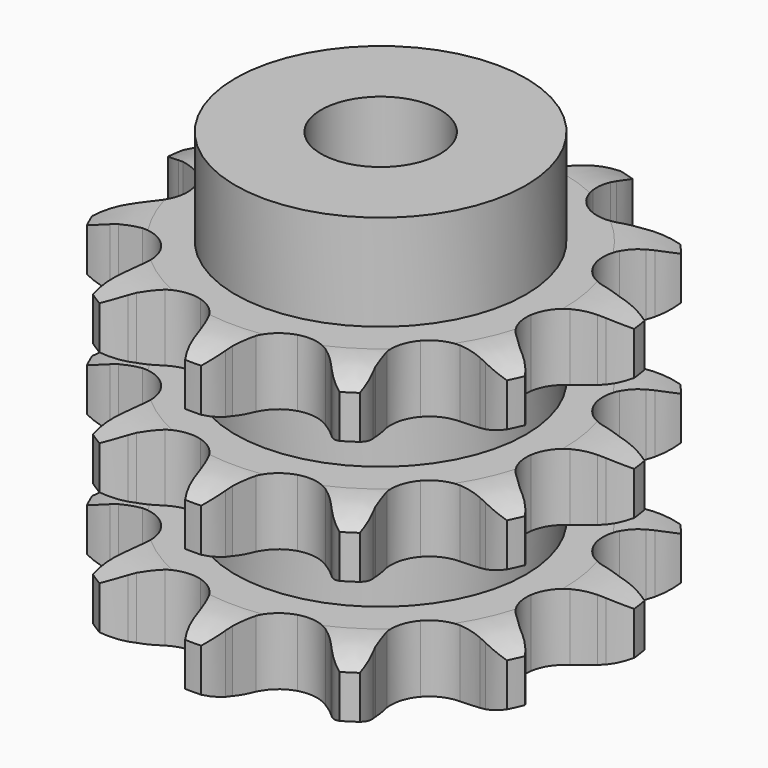
from build123d import *

# Parameters (mm, degrees)
PAD_DEPTH         = 42.1
SKETCH001_R       = 19.5
PAD001_DEPTH      = 55
SKETCH002_R       = 8
POCKET_DEPTH      = 0.001
POCKET_DEPTH_BACK = 55.001


with BuildPart() as part:
    # Sprocket → Pad (new body)
    with BuildSketch(Plane.XY):
        with BuildLine():
            ThreePointArc((-9.271424, 31.575569), (-7.404692, 30.088528), (-6.018207, 28.145944))
            Line((-6.018207, 28.145944), (-5.582333, 27.310258))
            ThreePointArc((-5.582333, 27.310258), (-4.817807, 26.026363), (-3.913797, 24.836551))
            ThreePointArc((-3.913797, 24.836551), (-2.155229, 23.503703), (0, 23.030383))
            ThreePointArc((0, 23.030383), (2.155229, 23.503703), (3.913797, 24.836551))
            ThreePointArc((3.913797, 24.836551), (4.817807, 26.026363), (5.582333, 27.310258))
            Line((5.582333, 27.310258), (6.018207, 28.145944))
            ThreePointArc((6.018207, 28.145944), (7.404692, 30.088528), (9.271424, 31.575569))
            ThreePointArc((9.271424, 31.575569), (10.037863, 29.31536), (10.154008, 26.931564))
            Line((10.154008, 26.931564), (10.068882, 25.992888))
            ThreePointArc((10.068882, 25.992888), (10.017917, 24.499473), (10.135157, 23.009794))
            ThreePointArc((10.135157, 23.009794), (10.893967, 20.937778), (12.451165, 19.374391))
            ThreePointArc((12.451165, 19.374391), (14.520155, 18.607368), (16.720148, 18.777877))
            Line((16.720148, 18.777877), (19.461198, 19.956813))
            ThreePointArc((19.461198, 19.956813), (19.866291, 20.197768), (20.279684, 20.424186))
            ThreePointArc((20.279684, 20.424186), (22.49631, 21.308802), (24.870659, 21.550549))
            ThreePointArc((24.870659, 21.550549), (24.293468, 19.234772), (23.102398, 17.166602))
            Line((23.102398, 17.166602), (22.523299, 16.42296))
            ThreePointArc((22.523299, 16.42296), (21.673023, 15.194173), (20.966271, 13.877591))
            ThreePointArc((20.966271, 13.877591), (20.484406, 11.724256), (20.949173, 9.567167))
            ThreePointArc((20.949173, 9.567167), (22.275035, 7.803326), (24.217971, 6.757361))
            Line((24.217971, 6.757361), (27.161269, 6.267222))
            ThreePointArc((27.161269, 6.267222), (27.632325, 6.250916), (28.102505, 6.217894))
            ThreePointArc((28.102505, 6.217894), (30.445509, 5.763681), (32.573636, 4.683382))
            ThreePointArc((32.573636, 4.683382), (30.836068, 3.047279), (28.715939, 1.951365))
            Line((28.715939, 1.951365), (27.826727, 1.638858))
            ThreePointArc((27.826727, 1.638858), (26.447097, 1.064831), (25.140742, 0.33935))
            ThreePointArc((25.140742, 0.33935), (23.57119, -1.211634), (22.795967, -3.277565))
            ThreePointArc((22.795967, -3.277565), (22.957748, -5.478218), (24.026759, -7.40857))
            Line((24.026759, -7.40857), (26.23783, -9.412168))
            ThreePointArc((26.23783, -9.412168), (26.625292, -9.680558), (27.002979, -9.962536))
            ThreePointArc((27.002979, -9.962536), (28.728473, -11.611367), (29.934714, -13.670726))
            ThreePointArc((29.934714, -13.670726), (27.588435, -14.107703), (25.212373, -13.883416))
            Line((25.212373, -13.883416), (24.295367, -13.665569))
            ThreePointArc((24.295367, -13.665569), (22.824405, -13.402588), (21.333204, -13.306631))
            ThreePointArc((21.333204, -13.306631), (19.174288, -13.762839), (17.405202, -15.081693))
            ThreePointArc((17.405202, -15.081693), (16.351539, -17.020465), (16.207221, -19.222332))
            Line((16.207221, -19.222332), (16.984065, -22.103261))
            ThreePointArc((16.984065, -22.103261), (17.164916, -22.538523), (17.330198, -22.979931))
            ThreePointArc((17.330198, -22.979931), (17.89035, -25.299889), (17.791731, -27.684475))
            ThreePointArc((17.791731, -27.684475), (15.581668, -26.783589), (13.704056, -25.310311))
            Line((13.704056, -25.310311), (13.050398, -24.631275))
            ThreePointArc((13.050398, -24.631275), (11.955125, -23.614779), (10.752526, -22.727852))
            ThreePointArc((10.752526, -22.727852), (8.689685, -21.944439), (6.488409, -22.09749))
            ThreePointArc((6.488409, -22.09749), (4.553831, -23.158836), (3.242004, -24.93314))
            Line((3.242004, -24.93314), (2.337979, -27.776725))
            ThreePointArc((2.337979, -27.776725), (2.254801, -28.240666), (2.155201, -28.701361))
            ThreePointArc((2.155201, -28.701361), (1.372168, -30.955874), (0, -32.908598))
            ThreePointArc((0, -32.908598), (-1.372168, -30.955874), (-2.155201, -28.701361))
            Line((-2.155201, -28.701361), (-2.337979, -27.776725))
            ThreePointArc((-2.337979, -27.776725), (-2.709822, -26.329445), (-3.242004, -24.93314))
            ThreePointArc((-3.242004, -24.93314), (-4.553831, -23.158836), (-6.488409, -22.09749))
            ThreePointArc((-6.488409, -22.09749), (-8.689685, -21.944439), (-10.752526, -22.727852))
            Line((-10.752526, -22.727852), (-13.050398, -24.631275))
            ThreePointArc((-13.050398, -24.631275), (-13.371197, -24.976598), (-13.704056, -25.310311))
            ThreePointArc((-13.704056, -25.310311), (-15.581668, -26.783589), (-17.791731, -27.684475))
            ThreePointArc((-17.791731, -27.684475), (-17.89035, -25.299889), (-17.330198, -22.979931))
            Line((-17.330198, -22.979931), (-16.984065, -22.103261))
            ThreePointArc((-16.984065, -22.103261), (-16.51442, -20.684698), (-16.207221, -19.222332))
            ThreePointArc((-16.207221, -19.222332), (-16.351539, -17.020465), (-17.405202, -15.081693))
            ThreePointArc((-17.405202, -15.081693), (-19.174288, -13.762839), (-21.333204, -13.306631))
            Line((-21.333204, -13.306631), (-24.295367, -13.665569))
            ThreePointArc((-24.295367, -13.665569), (-24.751935, -13.782636), (-25.212373, -13.883416))
            ThreePointArc((-25.212373, -13.883416), (-27.588435, -14.107703), (-29.934714, -13.670726))
            ThreePointArc((-29.934714, -13.670726), (-28.728473, -11.611367), (-27.002979, -9.962536))
            Line((-27.002979, -9.962536), (-26.23783, -9.412168))
            ThreePointArc((-26.23783, -9.412168), (-25.075807, -8.472706), (-24.026759, -7.40857))
            ThreePointArc((-24.026759, -7.40857), (-22.957748, -5.478218), (-22.795967, -3.277565))
            ThreePointArc((-22.795967, -3.277565), (-23.57119, -1.211634), (-25.140742, 0.33935))
            Line((-25.140742, 0.33935), (-27.826727, 1.638858))
            ThreePointArc((-27.826727, 1.638858), (-28.274108, 1.787215), (-28.715939, 1.951365))
            ThreePointArc((-28.715939, 1.951365), (-30.836068, 3.047279), (-32.573636, 4.683382))
            ThreePointArc((-32.573636, 4.683382), (-30.445509, 5.763681), (-28.102505, 6.217894))
            Line((-28.102505, 6.217894), (-27.161269, 6.267222))
            ThreePointArc((-27.161269, 6.267222), (-25.675802, 6.429311), (-24.217971, 6.757361))
            ThreePointArc((-24.217971, 6.757361), (-22.275035, 7.803326), (-20.949173, 9.567167))
            ThreePointArc((-20.949173, 9.567167), (-20.484406, 11.724256), (-20.966271, 13.877591))
            Line((-20.966271, 13.877591), (-22.523299, 16.42296))
            ThreePointArc((-22.523299, 16.42296), (-22.819452, 16.789638), (-23.102398, 17.166602))
            ThreePointArc((-23.102398, 17.166602), (-24.293468, 19.234772), (-24.870659, 21.550549))
            ThreePointArc((-24.870659, 21.550549), (-22.49631, 21.308802), (-20.279684, 20.424186))
            Line((-20.279684, 20.424186), (-19.461198, 19.956813))
            ThreePointArc((-19.461198, 19.956813), (-18.123911, 19.290067), (-16.720148, 18.777877))
            ThreePointArc((-16.720148, 18.777877), (-14.520155, 18.607368), (-12.451165, 19.374391))
            ThreePointArc((-12.451165, 19.374391), (-10.893967, 20.937778), (-10.135157, 23.009794))
            Line((-10.135157, 23.009794), (-10.068882, 25.992888))
            ThreePointArc((-10.068882, 25.992888), (-10.119781, 26.46147), (-10.154008, 26.931564))
            ThreePointArc((-10.154008, 26.931564), (-10.037863, 29.31536), (-9.271424, 31.575569))
        make_face()
    extrude(amount=PAD_DEPTH)

    # Sketch → Groove (revolve, cut)
    with BuildSketch(Plane.XZ):
        with BuildLine():
            ThreePointArc((24.525762, 0), (28.10347, 0.405129), (31.5, 1.6))
            Line((31.5, 1.6), (31.5, 7.4))
            ThreePointArc((31.5, 7.4), (28.10347, 8.594871), (24.525762, 9))
            Line((19.5, 9), (24.525762, 9))
            Line((19.5, 9), (19.5, 16.55))
            Line((19.5, 16.55), (24.525762, 16.55))
            ThreePointArc((24.525762, 16.55), (28.10347, 16.955129), (31.5, 18.15))
            Line((31.5, 23.95), (31.5, 18.15))
            ThreePointArc((31.5, 23.95), (28.10347, 25.144871), (24.525762, 25.55))
            Line((19.5, 25.55), (24.525762, 25.55))
            Line((19.5, 33.1), (19.5, 25.55))
            Line((24.525762, 33.1), (19.5, 33.1))
            ThreePointArc((24.525762, 33.1), (28.10347, 33.505129), (31.5, 34.7))
            Line((31.5, 34.7), (31.5, 40.5))
            ThreePointArc((31.5, 40.5), (28.10347, 41.694871), (24.525762, 42.1))
            Line((24.525762, 42.1), (41.5, 42.1))
            Line((41.5, 42.1), (41.5, 0))
            Line((24.525762, 0), (41.5, 0))
        make_face()
    revolve(axis=Axis((0, 0, 0), (0, 0, 1)), mode=Mode.SUBTRACT)

    # Sketch001 → Pad001 (join)
    with BuildSketch(Plane.XY):
        Circle(SKETCH001_R)
    extrude(amount=PAD001_DEPTH)

    # Sketch002 → Pocket (cut, two sides)
    with BuildSketch(Plane.XY) as pocket_sk:
        Circle(SKETCH002_R)
    extrude(amount=-POCKET_DEPTH, mode=Mode.SUBTRACT)
    extrude(pocket_sk.sketch, amount=POCKET_DEPTH_BACK, mode=Mode.SUBTRACT)


solid = part.part
